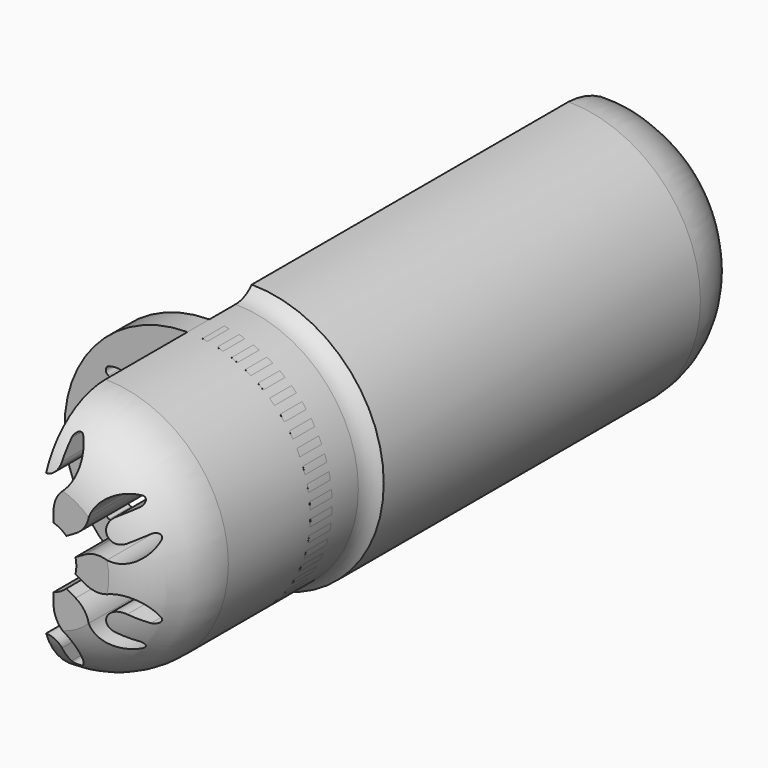
from build123d import *

# Parameters (mm, degrees)
F4_ANGLE  = 180
F6_DEPTH  = 90
F8_COUNT  = 6
F12_START = -20
F11_R     = 13.4913344195
F12_DEPTH = 3


with BuildPart() as f4:
    # F3 (on Right) → F4 (revolve)
    with BuildSketch(Plane.YZ):
        with BuildLine():
            Line((0.3716222048, 20.884835436), (81.3056033368, 20.884835436))
            ThreePointArc((81.3056033368, 20.884835436), (79.2480851868, 28.3977219469), (72.2783456923, 31.8761664331))
            Line((72.2783456923, 31.8761664331), (28.8201148927, 31.8761664331))
            ThreePointArc((28.8201148927, 31.8761664331), (27.8087917866, 31.1375536456), (26.5840469152, 30.8761664331))
            Line((26.5840469152, 30.8761664331), (8.8330505692, 30.8761664331))
            Line((8.8330505692, 30.8761664331), (8.7405150061, 30.8761664331))
            ThreePointArc((8.7405150061, 30.8761664331), (3.470465515, 29.0675325384), (0.3716222048, 24.4370089889))
            Line((0.3716222048, 24.4370089889), (0.3716222048, 20.884835436))
        make_face()
    revolve(axis=Axis((0, 40.3716222048, 17.384835436), (0, 1, 0)), revolution_arc=F4_ANGLE)


with BuildPart() as f6:
    # F5 (on Front) → F6 (new body)
    with BuildSketch(Plane.XZ):
        with BuildLine():
            ThreePointArc((1, 14.0307334698), (0, 13.884835436), (-1, 14.0307334698))
            Line((-1, 14.0307334698), (-1, 12.856971391))
            ThreePointArc((-1, 12.856971391), (-1.2613872125, 11.6322265196), (-2, 10.6209034135))
            ThreePointArc((-2, 10.6209034135), (-2.9992178836, 8.4533342433), (-2.1, 6.2424069075))
            ThreePointArc((-2.1, 6.2424069075), (-1.5563508327, 6.138501106), (-1.25, 6.5994783289))
            Line((-1.25, 6.5994783289), (-1.25, 8.384835436))
            ThreePointArc((-1.25, 8.384835436), (0, 9.634835436), (1.25, 8.384835436))
            Line((1.25, 8.384835436), (1.25, 6.5994783289))
            ThreePointArc((1.25, 6.5994783289), (1.5563508327, 6.138501106), (2.1, 6.2424069075))
            ThreePointArc((2.1, 6.2424069075), (2.9992178836, 8.4533342433), (2, 10.6209034135))
            ThreePointArc((2, 10.6209034135), (1.2613872125, 11.6322265196), (1, 12.856971391))
            Line((1, 12.856971391), (1, 14.0307334698))
        make_face()
    extrude(amount=-F6_DEPTH)


with BuildPart() as f8_1:
    # F8: instance of F6
    add(f6.part.rotate(Axis((0, 20.536005497, 17.384835436), (0, 1, 0)), 1 * 360 / F8_COUNT))


with BuildPart() as f8_2:
    # F8: instance of F6
    add(f6.part.rotate(Axis((0, 20.536005497, 17.384835436), (0, 1, 0)), 2 * 360 / F8_COUNT))


with BuildPart() as f8_3:
    # F8: instance of F6
    add(f6.part.rotate(Axis((0, 20.536005497, 17.384835436), (0, 1, 0)), 3 * 360 / F8_COUNT))


with BuildPart() as f8_4:
    # F8: instance of F6
    add(f6.part.rotate(Axis((0, 20.536005497, 17.384835436), (0, 1, 0)), 4 * 360 / F8_COUNT))


with BuildPart() as f8_5:
    # F8: instance of F6
    add(f6.part.rotate(Axis((0, 20.536005497, 17.384835436), (0, 1, 0)), 5 * 360 / F8_COUNT))


with BuildPart() as f4_1:
    add(f4.part)

    # F9: cut F6, F8_5, F8_4, F8_3
    add(f6.part, mode=Mode.SUBTRACT)
    add(f8_5.part, mode=Mode.SUBTRACT)
    add(f8_4.part, mode=Mode.SUBTRACT)
    add(f8_3.part, mode=Mode.SUBTRACT)


with BuildPart() as f10:
    # F3 (on Right) → F10 (revolve)
    with BuildSketch(Plane.YZ):
        with BuildLine():
            Line((0.3716222048, 20.884835436), (81.3056033368, 20.884835436))
            ThreePointArc((81.3056033368, 20.884835436), (79.2480851868, 28.3977219469), (72.2783456923, 31.8761664331))
            Line((72.2783456923, 31.8761664331), (28.8201148927, 31.8761664331))
            ThreePointArc((28.8201148927, 31.8761664331), (27.8087917866, 31.1375536456), (26.5840469152, 30.8761664331))
            Line((26.5840469152, 30.8761664331), (8.8330505692, 30.8761664331))
            Line((8.8330505692, 30.8761664331), (8.7405150061, 30.8761664331))
            ThreePointArc((8.7405150061, 30.8761664331), (3.470465515, 29.0675325384), (0.3716222048, 24.4370089889))
            Line((0.3716222048, 24.4370089889), (0.3716222048, 20.884835436))
        make_face()
    revolve(axis=Axis((0, 40.3716222048, 17.384835436), (0, 1, 0)))

    # F13: cut F6, F8_5, F8_4, F8_3, F8_2, F8_1
    add(f6.part, mode=Mode.SUBTRACT)
    add(f8_5.part, mode=Mode.SUBTRACT)
    add(f8_4.part, mode=Mode.SUBTRACT)
    add(f8_3.part, mode=Mode.SUBTRACT)
    add(f8_2.part, mode=Mode.SUBTRACT)
    add(f8_1.part, mode=Mode.SUBTRACT)


with BuildPart() as f12:
    # F11 (on Front) → F12 (new body)
    with BuildSketch(Plane.XZ.offset(F12_START)):
        with Locations((0, 17.384835436)):
            Circle(F11_R)
    extrude(amount=-F12_DEPTH)


with BuildPart() as f10_1:
    add(f10.part)

    # F14: intersect F12
    add(f12.part, mode=Mode.INTERSECT)


solid = Compound([f4_1.part, f10_1.part])
